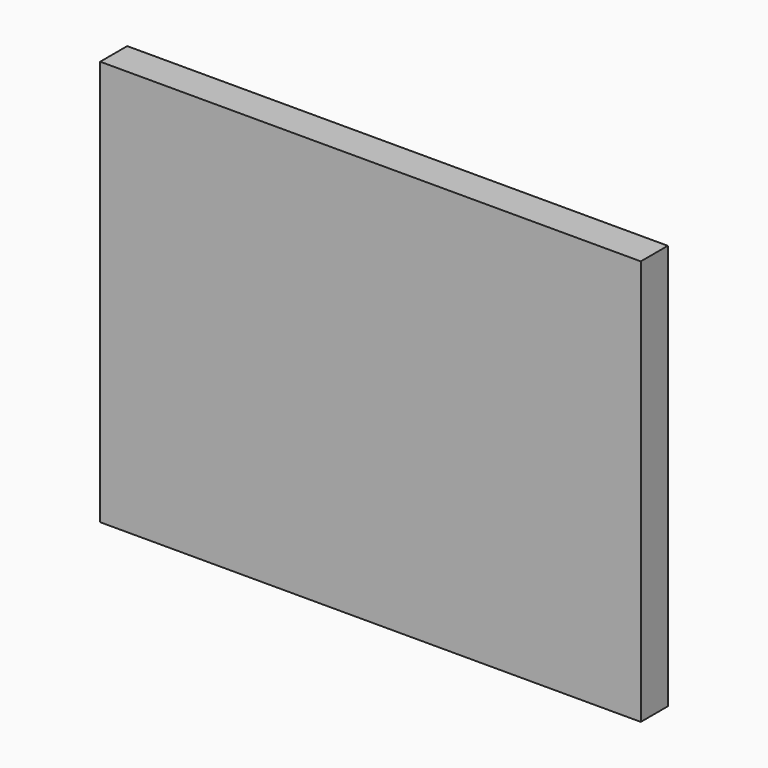
from build123d import *

# Parameters (mm, degrees)
F0_W     = 101.6
F0_H     = 76.2
F2_DEPTH = 3.175
F1_W     = 95.25
F1_H     = 69.85
F3_DEPTH = 112.522


with BuildPart() as f2:
    # F0 (on Front) → F2 (new body, symmetric)
    with BuildSketch(Plane.XZ):
        Rectangle(F0_W, F0_H)
    extrude(amount=F2_DEPTH, both=True)

    # F1 (on Front) → F3 (cut)
    with BuildSketch(Plane.XZ):
        Rectangle(F1_W, F1_H)
    extrude(amount=-F3_DEPTH, mode=Mode.SUBTRACT)


solid = f2.part
